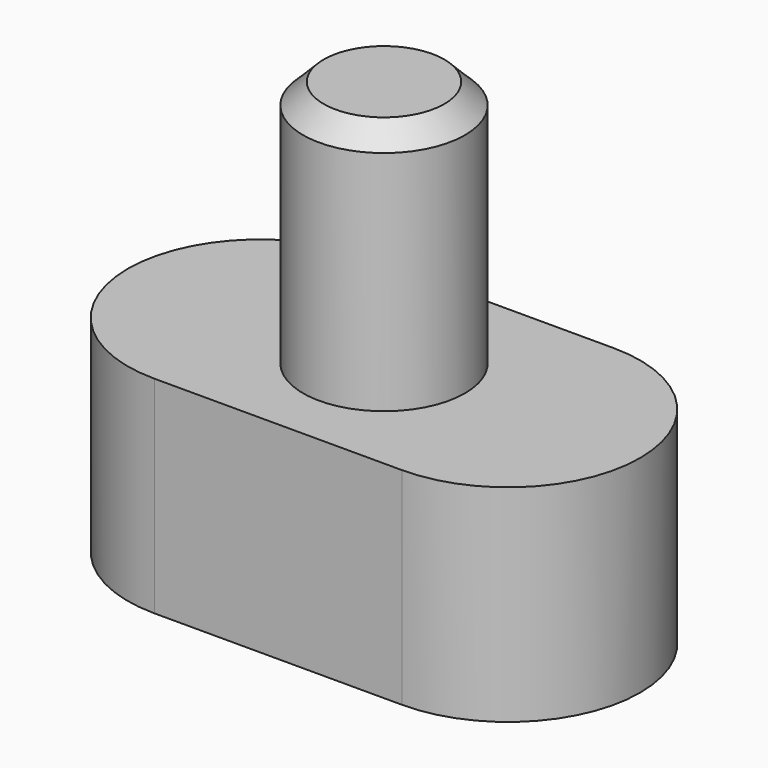
from build123d import *

# Parameters (mm, degrees)
F0_R     = 8.255
F1_DEPTH = 12.7
F3_DEPTH = 3.175
F4_R     = 6.223
F5_DEPTH = 19.05
F6_SIZE  = 1.5875


with BuildPart() as f1:
    # F0 (on Top) → F1 (new body)
    with BuildSketch(Plane.XY):
        with BuildLine():
            Line((19.05, 10.16), (0, 10.16))
            ThreePointArc((0, 10.16), (-10.16, 0), (0, -10.16))
            Line((0, -10.16), (19.05, -10.16))
            ThreePointArc((19.05, -10.16), (29.21, 0), (19.05, 10.16))
        make_face()
        Circle(F0_R, mode=Mode.SUBTRACT)
        with Locations((19.05, 0)):
            Circle(F0_R, mode=Mode.SUBTRACT)
    extrude(amount=F1_DEPTH)

    # F2 (on face) → F3 (join)
    with BuildSketch(Plane.XY.offset(12.7)):
        with BuildLine():
            Line((19.05, 10.16), (0, 10.16))
            ThreePointArc((0, 10.16), (-10.16, 0), (0, -10.16))
            Line((0, -10.16), (19.05, -10.16))
            ThreePointArc((19.05, -10.16), (29.21, 0), (19.05, 10.16))
        make_face()
    extrude(amount=F3_DEPTH)

    # F4 (on face) → F5 (join)
    with BuildSketch(Plane.XY.offset(15.875)):
        with Locations((9.525, 0)):
            Circle(F4_R)
    extrude(amount=F5_DEPTH)

    # F6
    f6_edges = [f1.edges().sort_by_distance(p)[0] for p in [
        (3.302, 0, 34.925),
    ]]
    chamfer(f6_edges, length=F6_SIZE)


solid = f1.part
